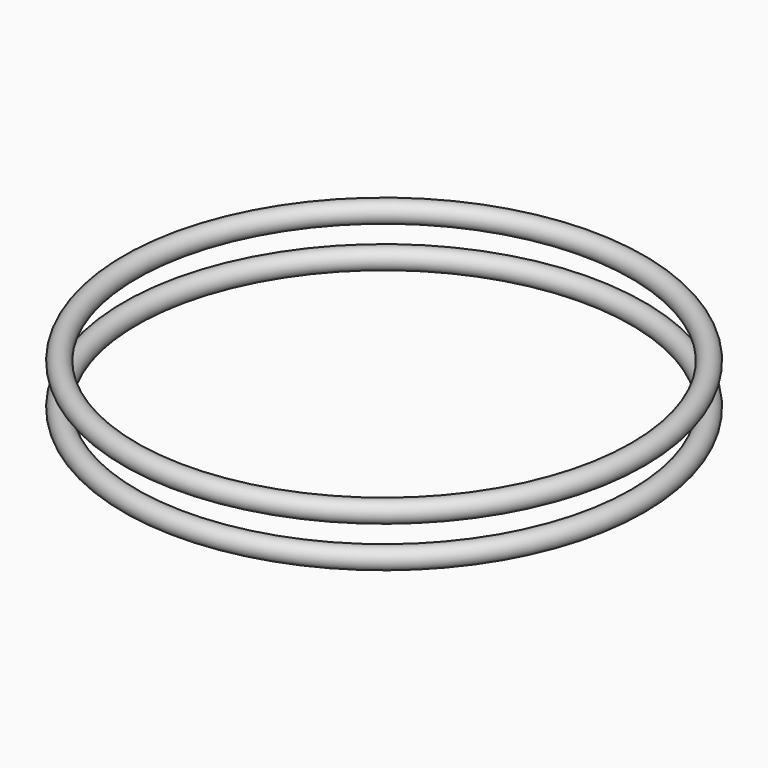
from build123d import *

# Parameters (mm, degrees)
TORUS001_R = 1.25
TORUS_R    = 1.25


with BuildPart() as torus001:
    # Torus001 → Torus001 (revolve)
    with BuildSketch(Plane(origin=(0, 0, 8.5), x_dir=(1, 0, 0), z_dir=(0, -1, 0))):
        with Locations((31, 0)):
            Circle(TORUS001_R)
    revolve(axis=Axis((0, 0, 8.5), (0, 0, 1)))


with BuildPart() as obj1:
    # Torus → Torus (revolve)
    with BuildSketch(Plane(origin=(0, 0, 3.5), x_dir=(1, 0, 0), z_dir=(0, -1, 0))):
        with Locations((31, 0)):
            Circle(TORUS_R)
    revolve(axis=Axis((0, 0, 3.5), (0, 0, 1)))

    # Fusion: union Torus001
    add(torus001.part)


solid = obj1.part
